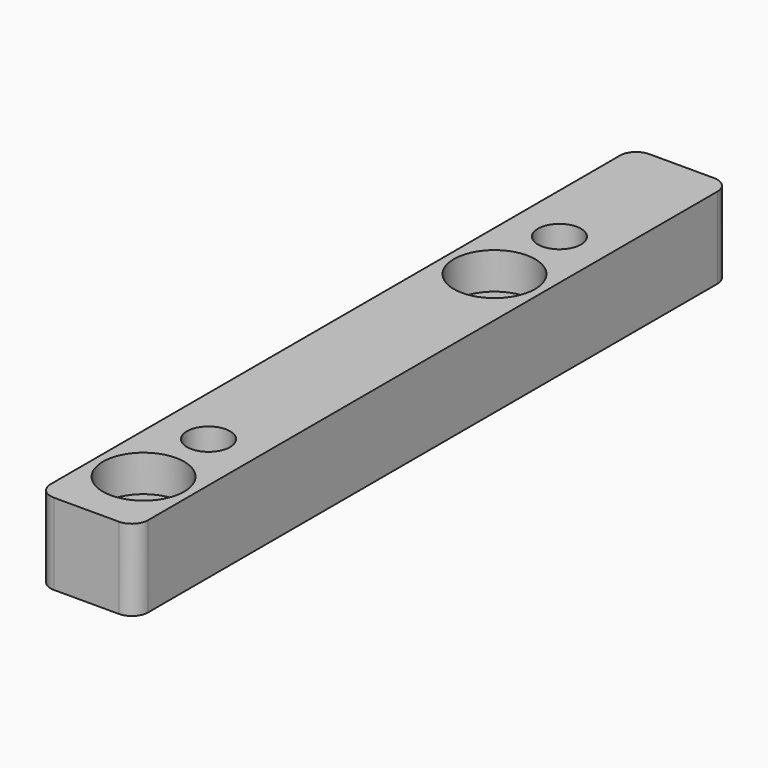
from build123d import *

# Parameters (mm, degrees)
SKETCH_W        = 12
SKETCH_H        = 91.6
PAD_DEPTH       = 10
SKETCH001_R     = 2.65
POCKET_DEPTH    = 195.845666
POCKET001_DEPTH = 4.5
SKETCH003_R     = 5
POCKET002_DEPTH = 4.5
SKETCH004_R     = 2.6
POCKET003_DEPTH = 10.001
FILLET_R        = 2
CHAMFER_SIZE    = 1


with BuildPart() as part:
    # Sketch → Pad (new body)
    with BuildSketch(Plane.XY):
        Rectangle(SKETCH_W, SKETCH_H)
    extrude(amount=PAD_DEPTH)

    # Sketch001 (on Face6 of Pad) → Pocket (cut, through all)
    with BuildSketch(Plane.XY.offset(10)):
        with Locations((0, 27)):
            Circle(SKETCH001_R)
    pocket = extrude(amount=-POCKET_DEPTH, mode=Mode.SUBTRACT)

    # Sketch002 (on Face4 of Pocket) → Pocket001 (cut)
    with BuildSketch(Plane(origin=(0, 0, 0), x_dir=(1, 0, 0), z_dir=(0, 0, -1))):
        Polygon((0, -22.323463), (-4.05, -24.661731), (-4.05, -29.338269), (0, -31.676537), (4.05, -29.338269), (4.05, -24.661731), align=None)
    pocket001 = extrude(amount=-POCKET001_DEPTH, mode=Mode.SUBTRACT)

    # Mirrored: Pocket001, Pocket across XZ
    add(pocket001.mirror(Plane.XZ), mode=Mode.SUBTRACT)
    add(pocket.mirror(Plane.XZ), mode=Mode.SUBTRACT)

    # Sketch003 (on Face5 of Mirrored) → Pocket002 (cut)
    with BuildSketch(Plane.XY.offset(10)):
        with Locations((0, 17)):
            Circle(SKETCH003_R)
        with Locations((0, -37)):
            Circle(SKETCH003_R)
    extrude(amount=-POCKET002_DEPTH, mode=Mode.SUBTRACT)

    # Sketch004 (on Face5 of Pocket002) → Pocket003 (cut, through all)
    with BuildSketch(Plane.XY.offset(10)):
        with Locations((0, 17)):
            Circle(SKETCH004_R)
        with Locations((0, -37)):
            Circle(SKETCH004_R)
    extrude(amount=-POCKET003_DEPTH, mode=Mode.SUBTRACT)

    # Fillet
    fillet_edges = [part.edges().sort_by_distance(p)[0] for p in [
        (-6, 45.8, 5),
        (-6, -45.8, 5),
        (6, -45.8, 5),
        (6, 45.8, 5),
    ]]
    fillet(fillet_edges, radius=FILLET_R)

    # Chamfer
    chamfer_edges = [part.edges().sort_by_distance(p)[0] for p in [
        (-2.65, 27, 4.5),
        (-2.65, -27, 4.5),
    ]]
    chamfer(chamfer_edges, length=CHAMFER_SIZE)


solid = part.part
